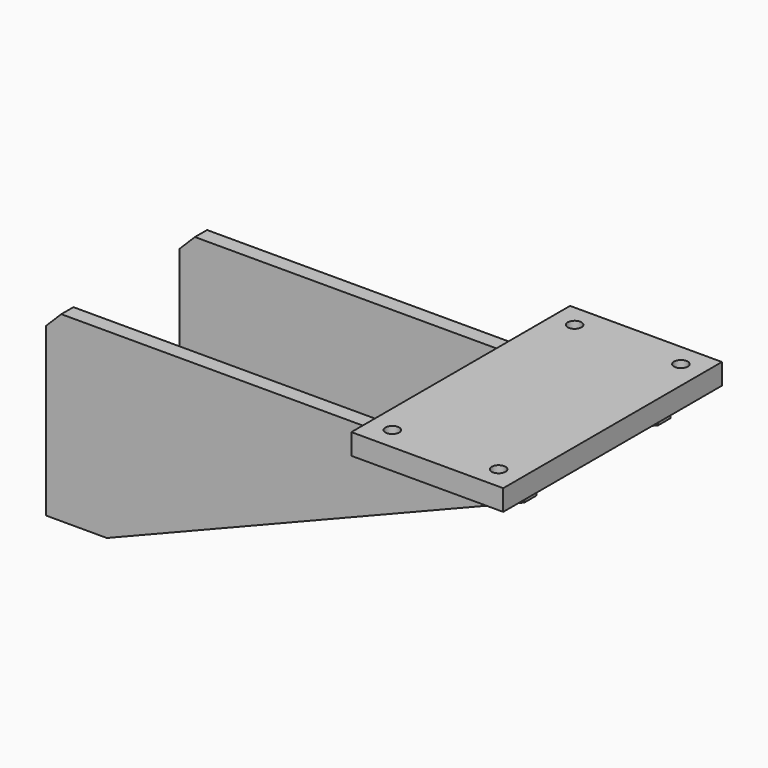
from build123d import *

# Parameters (mm, degrees)
F0_W     = 127
F0_H     = 228.6
F1_DEPTH = 17.4625
F3_D     = 11.50874
F4_W     = 400.05
F4_H     = 12.7
F5_DEPTH = 152.4
F7_DEPTH = 190.501
F8_SIZE  = 12.7


with BuildPart() as f1:
    # F0 (on Top) → F1 (new body)
    with BuildSketch(Plane.XY):
        Rectangle(F0_W, F0_H)
    extrude(amount=F1_DEPTH)

    # F3 (through all)
    with Locations(Plane.XY.offset(17.4625)):
        with Locations((-44.45, 95.25), (44.45, 95.25), (44.45, -95.25), (-44.45, -95.25)):
            Hole(F3_D / 2)

    # F4 (on face) → F5 (join)
    with BuildSketch(Plane(origin=(0, 0, 0), x_dir=(1, 0, 0), z_dir=(0, 0, -1))):
        with Locations((-149.225, -69.85)):
            Rectangle(F4_W, F4_H)
    extrude(amount=F5_DEPTH)

    # F6 (on face) → F7 (cut, through all)
    with BuildSketch(Plane(origin=(0, 76.2, 0), x_dir=(-1, 0, 0), z_dir=(0, 1, 0))):
        Polygon((-50.8, -12.7), (-50.8, -152.4), (298.45, -152.4), align=None)
    extrude(amount=-F7_DEPTH, mode=Mode.SUBTRACT)

    # F8
    f8_edges = [f1.edges().sort_by_distance(p)[0] for p in [
        (-349.25, 69.85, 0),
    ]]
    chamfer(f8_edges, length=F8_SIZE)

    # F9: F1 across plane


with BuildPart() as f1_1:
    add(f1.part)
    add(f1.part.mirror(Plane.XZ))


solid = f1_1.part
